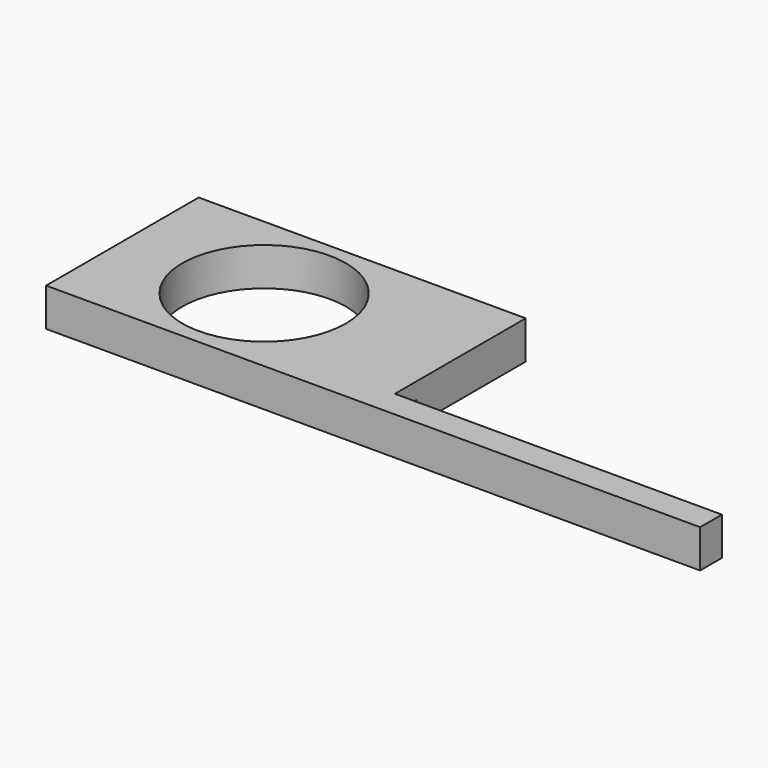
from build123d import *

# Parameters (mm, degrees)
F0_W     = 304.8
F0_H     = 88.9
F1_DEPTH = 17.78
F2_W     = 152.4
F2_H     = 76.2
F3_DEPTH = 25.4
F4_R     = 38.1
F5_DEPTH = 25.4
F6_W     = 10.16
F6_H     = 10.16
F7_DEPTH = 128.9815305102


with BuildPart() as f1:
    # F0 (on Top) → F1 (new body)
    with BuildSketch(Plane.XY):
        with Locations((-65.4162000656, -0.3342888534)):
            Rectangle(F0_W, F0_H)
    extrude(amount=F1_DEPTH)

    # F2 (on face) → F3 (cut)
    with BuildSketch(Plane.XY.offset(17.78)):
        with Locations((10.7837999344, 6.0157111466)):
            Rectangle(F2_W, F2_H)
    extrude(amount=-F3_DEPTH, mode=Mode.SUBTRACT)

    # F4 (on face) → F5 (cut)
    with BuildSketch(Plane.XY.offset(17.78)):
        with Locations((-152.0220041275, 0)):
            Circle(F4_R)
    extrude(amount=-F5_DEPTH, mode=Mode.SUBTRACT)

    # F6 (on Right) → F7 (cut, up to face)
    with BuildSketch(Plane.YZ):
        with Locations((-24.4778353107, 5.08)):
            Rectangle(F6_W, F6_H)
    extrude(amount=-F7_DEPTH, mode=Mode.SUBTRACT)


solid = f1.part
